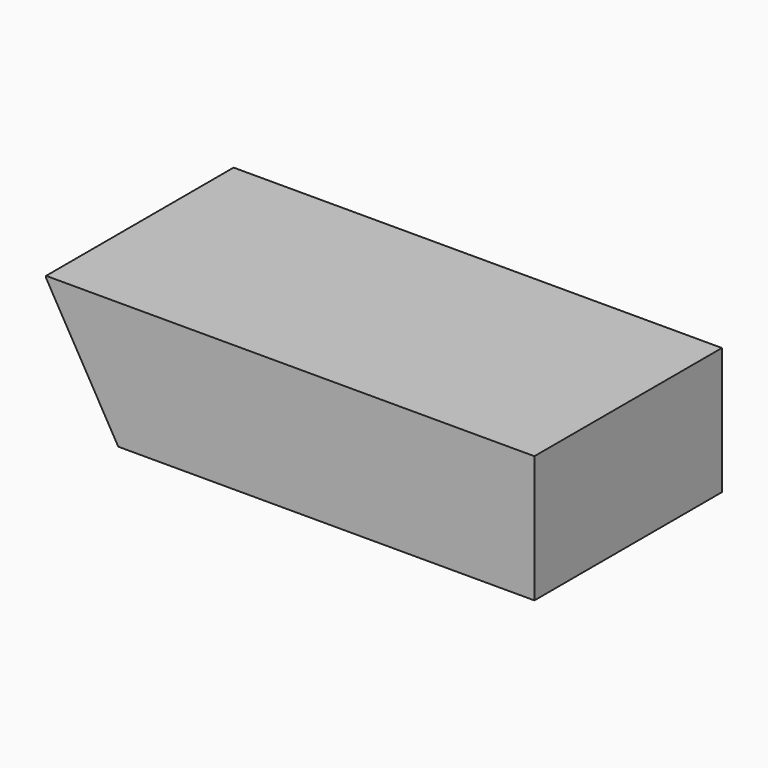
from build123d import *

# Parameters (mm, degrees)
BOX016_W               = 250
BOX016_H               = 120
BOX016_DEPTH           = 65
BOX016_PLACEMENT_ANGLE = 60
BOX017_W               = 250
BOX017_H               = 120
BOX017_DEPTH           = 65
CUT009_PLACEMENT_ANGLE = 180


with BuildPart() as box016:
    # Box016 → Box016 (new body)
    with BuildSketch(Plane.XY):
        with Locations((125, 60)):
            Rectangle(BOX016_W, BOX016_H)
    extrude(amount=BOX016_DEPTH)


with BuildPart() as box016_1:
    # Box016 placement: moved
    add(box016.part.moved(Location((187.927513, 0, 108.5))).rotate(Axis((187.927513, 0, 108.5), (0, 1, 0)), BOX016_PLACEMENT_ANGLE))


with BuildPart() as cut009:
    # Box017 → Box017 (new body)
    with BuildSketch(Plane.XY):
        with Locations((125, 60)):
            Rectangle(BOX017_W, BOX017_H)
    extrude(amount=BOX017_DEPTH)

    # Cut009: cut Box016
    add(box016_1.part, mode=Mode.SUBTRACT)


with BuildPart() as cut009_1:
    # Cut009 placement: moved
    add(cut009.part.moved(Location((469, 0, 64))).rotate(Axis((469, 0, 64), (0, 1, 0)), CUT009_PLACEMENT_ANGLE))


solid = cut009_1.part
